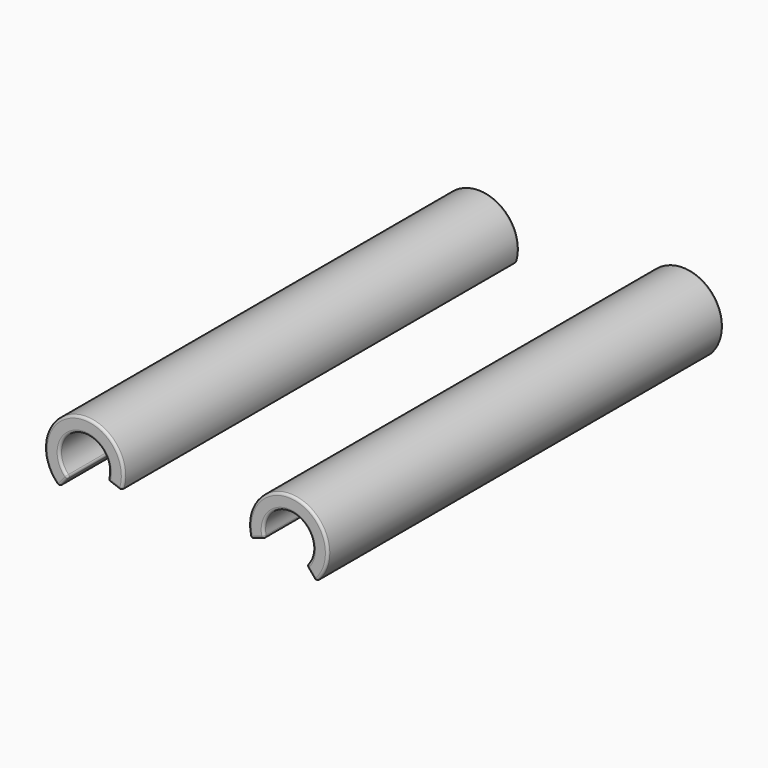
from build123d import *

# Parameters (mm, degrees)
F1_DEPTH = 100
F2_R     = 0.5


with BuildPart() as f1:
    # F0 (on Front) → F1 (new body)
    with BuildSketch(Plane.XZ):
        with BuildLine():
            Line((-16.055959, 37.015076), (-13.237687, 35.986784))
            ThreePointArc((-13.237687, 35.986784), (-22.816162, 46.44688), (-25.924482, 32.608559))
            Line((-25.924482, 32.608559), (-23.996094, 34.906722))
            ThreePointArc((-23.996094, 34.906722), (-22.04085, 43.548793), (-16.055959, 37.015076))
        make_face()
        with BuildLine():
            ThreePointArc((26.069842, 32.608559), (22.525334, 46.135543), (12.905276, 35.986784))
            Line((12.905276, 35.986784), (15.744645, 36.960136))
            ThreePointArc((15.744645, 36.960136), (21.72114, 43.244333), (24.134812, 34.914638))
            Line((24.134812, 34.914638), (26.069842, 32.608559))
        make_face()
    extrude(amount=-F1_DEPTH)

    # F2
    f2_edges = [f1.edges().sort_by_distance(p)[0] for p in [
        (-22.04085, 0, 43.548793),
        (-14.646823, 0, 36.50093),
        (-22.816162, 0, 46.44688),
        (-24.960288, 0, 33.75764),
        (21.72114, 0, 43.244333),
        (25.102327, 0, 33.761598),
        (22.525334, 0, 46.135543),
        (14.32496, 0, 36.47346),
        (21.72114, 100, 43.244333),
        (25.102327, 100, 33.761598),
        (22.525334, 100, 46.135543),
        (14.32496, 100, 36.47346),
        (-22.04085, 100, 43.548793),
        (-14.646823, 100, 36.50093),
        (-22.816162, 100, 46.44688),
        (-24.960288, 100, 33.75764),
        (-25.924482, 50, 32.608559),
        (-23.996094, 50, 34.906722),
        (-16.055959, 50, 37.015076),
        (-13.237687, 50, 35.986784),
        (12.905276, 50, 35.986784),
        (15.744645, 50, 36.960136),
        (24.134812, 50, 34.914638),
        (26.069842, 50, 32.608559),
    ]]
    fillet(f2_edges, radius=F2_R)


solid = f1.part
